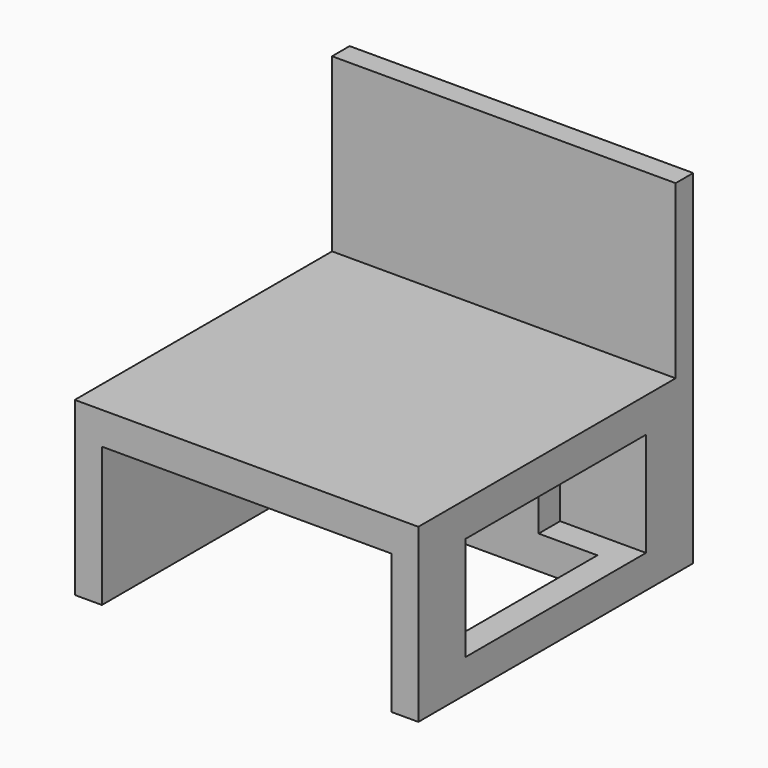
from build123d import *

# Parameters (mm, degrees)
F0_W     = 100
F0_H     = 100
F1_DEPTH = 100
F2_W     = 100
F2_H     = 93.59855
F3_DEPTH = 50
F4_W     = 84.22891
F4_H     = 40.867575
F5_DEPTH = 75
F6_W     = 65.648086
F6_H     = 30.288235
F7_DEPTH = 25


with BuildPart() as f1:
    # F0 (on Top) → F1 (new body)
    with BuildSketch(Plane.XY):
        Rectangle(F0_W, F0_H)
    extrude(amount=F1_DEPTH)

    # F2 (on face) → F3 (cut)
    with BuildSketch(Plane.XY.offset(100)):
        with Locations((0, -3.200725)):
            Rectangle(F2_W, F2_H)
    extrude(amount=-F3_DEPTH, mode=Mode.SUBTRACT)

    # F4 (on face) → F5 (cut)
    with BuildSketch(Plane.XZ.offset(50)):
        with Locations((0, 20.151093)):
            Rectangle(F4_W, F4_H)
    extrude(amount=-F5_DEPTH, mode=Mode.SUBTRACT)

    # F6 (on face) → F7 (cut)
    with BuildSketch(Plane.YZ.offset(50)):
        with Locations((0, 24.784692)):
            Rectangle(F6_W, F6_H)
    extrude(amount=-F7_DEPTH, mode=Mode.SUBTRACT)


solid = f1.part
